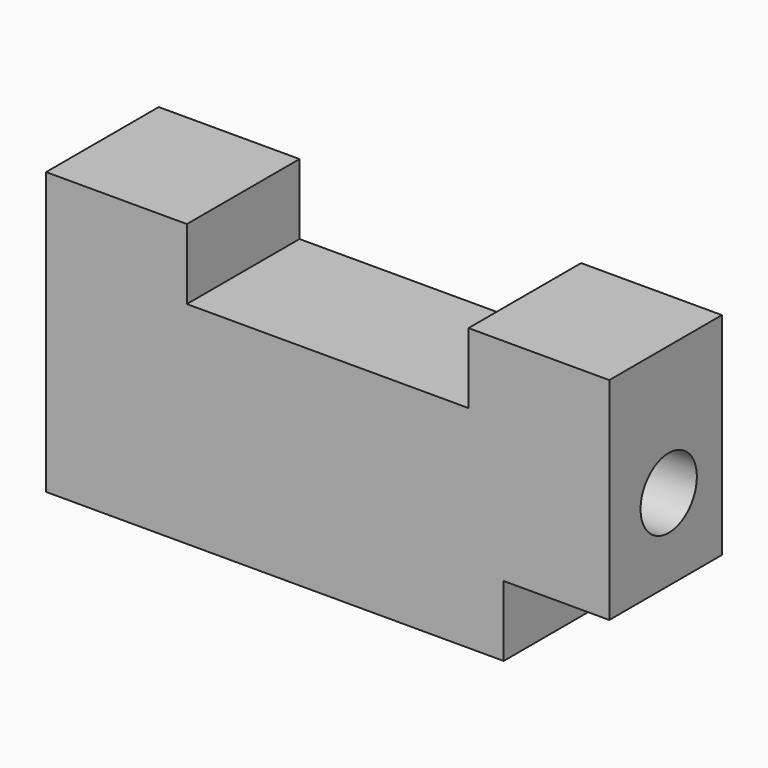
from build123d import *

# Parameters (mm, degrees)
F0_W     = 101.6
F0_H     = 50.8
F1_DEPTH = 25.4
F2_W     = 50.8
F2_H     = 12.7
F3_DEPTH = 25.401
F4_W     = 25.4
F4_H     = 12.7
F5_DEPTH = 19.05
F6_R     = 6.35
F7_DEPTH = 25.4


with BuildPart() as f1:
    # F0 (on Front) → F1 (new body)
    with BuildSketch(Plane.XZ):
        Rectangle(F0_W, F0_H)
    extrude(amount=F1_DEPTH)

    # F2 (on face) → F3 (cut, through all)
    with BuildSketch(Plane.XZ.offset(25.4)):
        with Locations((0, 19.05)):
            Rectangle(F2_W, F2_H)
    extrude(amount=-F3_DEPTH, mode=Mode.SUBTRACT)

    # F4 (on face) → F5 (cut)
    with BuildSketch(Plane.YZ.offset(50.8)):
        with Locations((-12.7, -19.05)):
            Rectangle(F4_W, F4_H)
    extrude(amount=-F5_DEPTH, mode=Mode.SUBTRACT)

    # F6 (on face) → F7 (cut)
    with BuildSketch(Plane.YZ.offset(50.8)):
        with Locations((-11.998156, 2.038684)):
            Circle(F6_R)
    extrude(amount=-F7_DEPTH, mode=Mode.SUBTRACT)


solid = f1.part
